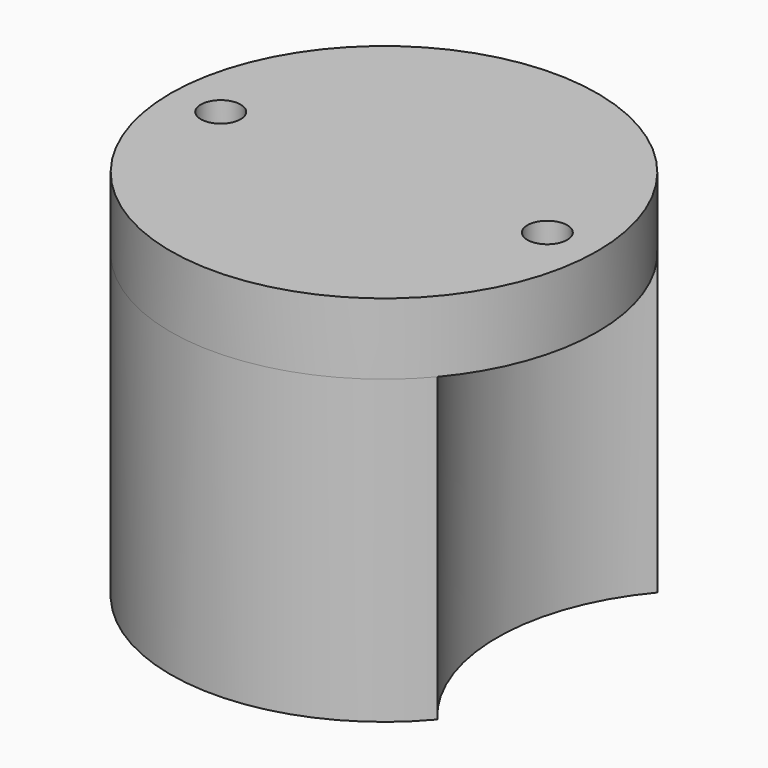
from build123d import *

# Parameters (mm, degrees)
SKETCH085_R             = 15
PAD020_DEPTH            = 5
SKETCH084_R             = 1.4
POCKET057_DEPTH         = 5.001
PAD019_DEPTH            = 21.2
SKETCH083_R             = 4
POCKET056_DEPTH         = 4
SKETCH087_R             = 1.4
POCKET058_DEPTH         = 8
BODY010_PLACEMENT_ANGLE = 90


with BuildPart() as part:
    # Sketch085 → Pad020 (new body)
    with BuildSketch(Plane.XZ):
        Circle(SKETCH085_R)
    extrude(amount=PAD020_DEPTH)

    # Sketch084 (on Face2 of Pad020) → Pocket057 (cut, through all)
    with BuildSketch(Plane(origin=(0, 0, 0), x_dir=(1, 0, 0), z_dir=(0, 1, 0))):
        with Locations((-11.475, 0)):
            Circle(SKETCH084_R)
        with Locations((11.475, 0)):
            Circle(SKETCH084_R)
    extrude(amount=-POCKET057_DEPTH, mode=Mode.SUBTRACT)

    # Sketch086 (on Face2 of Pocket057) → Pad019 (join)
    with BuildSketch(Plane(origin=(0, 0, 0), x_dir=(1, 0, 0), z_dir=(0, 1, 0))):
        with BuildLine():
            ThreePointArc((11.475, 9.660454), (0, 15), (-11.475, 9.660454))
            ThreePointArc((-11.475, -9.660454), (-7.95, 0), (-11.475, 9.660454))
            ThreePointArc((-11.475, -9.660454), (0, -15), (11.475, -9.660454))
            ThreePointArc((11.475, 9.660454), (7.95, 0), (11.475, -9.660454))
        make_face()
    extrude(amount=PAD019_DEPTH)

    # Sketch083 (on Face10 of Pad019) → Pocket056 (cut)
    with BuildSketch(Plane(origin=(0, 21.2, 0), x_dir=(1, 0, 0), z_dir=(0, 1, 0))):
        Circle(SKETCH083_R)
    extrude(amount=-POCKET056_DEPTH, mode=Mode.SUBTRACT)

    # Sketch087 (on Face10 of Pocket056) → Pocket058 (cut)
    with BuildSketch(Plane(origin=(0, 21.2, 0), x_dir=(1, 0, 0), z_dir=(0, 1, 0))):
        with Locations((-7.95, 9.660454)):
            Circle(SKETCH087_R)
        with Locations((7.95, 9.660454)):
            Circle(SKETCH087_R)
        with Locations((-7.95, -9.660454)):
            Circle(SKETCH087_R)
        with Locations((7.95, -9.660454)):
            Circle(SKETCH087_R)
    extrude(amount=-POCKET058_DEPTH, mode=Mode.SUBTRACT)


with BuildPart() as part_1:
    # Body010 placement: moved
    add(part.part.moved(Location((75.2, 74.8, 64.5))).rotate(Axis((75.2, 74.8, 64.5), (-1, 0, 0)), BODY010_PLACEMENT_ANGLE))


solid = part_1.part
